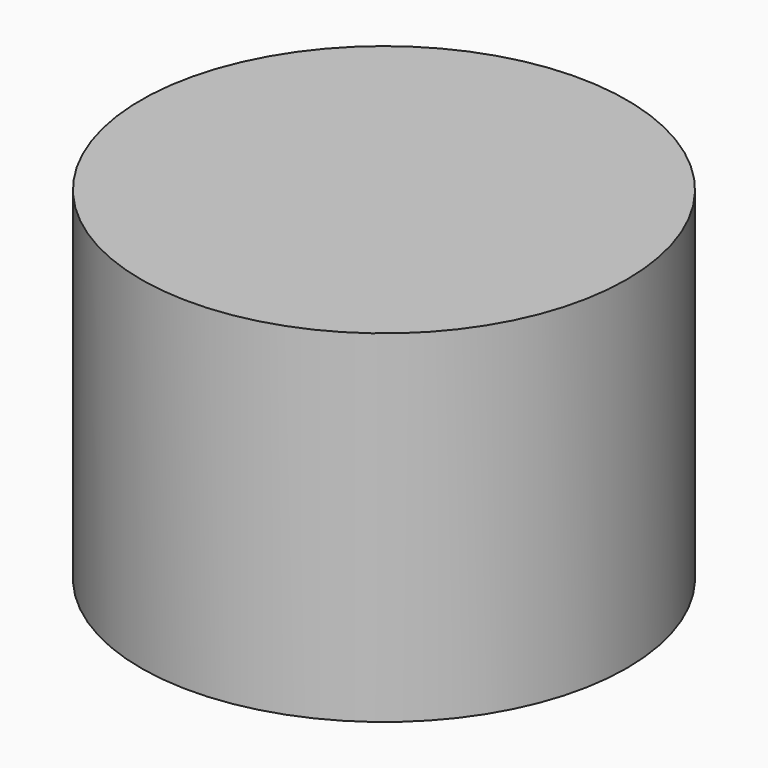
from build123d import *

# Parameters (mm, degrees)
CYLINDER_R        = 2.8
CYLINDER_DEPTH    = 2.54
POCKET_DEPTH      = 5
FILLET_R          = 0.25
CYLINDER001_R     = 3.55
CYLINDER001_DEPTH = 5


with BuildPart() as bolt:
    # Cylinder → Cylinder (new body)
    with BuildSketch(Plane.XY):
        Circle(CYLINDER_R)
    extrude(amount=CYLINDER_DEPTH)

    # Sketch → Pocket (cut)
    with BuildSketch(Plane.XY.offset(2.54)):
        Polygon((-0.733235, 1.27), (-1.46647, 0), (-0.733235, -1.27), (0.733235, -1.27), (1.46647, 0), (0.733235, 1.27), align=None)
    extrude(amount=-POCKET_DEPTH, mode=Mode.SUBTRACT)

    # Fillet
    fillet_edges = [bolt.edges().sort_by_distance(p)[0] for p in [
        (-2.8, 0, 2.54),
    ]]
    fillet(fillet_edges, radius=FILLET_R)


with BuildPart() as bolt_hook:
    # Cylinder001 → Cylinder001 (new body)
    with BuildSketch(Plane.XY):
        Circle(CYLINDER001_R)
    extrude(amount=CYLINDER001_DEPTH)

    # Cut: cut Bolt
    add(bolt.part, mode=Mode.SUBTRACT)


solid = bolt_hook.part
